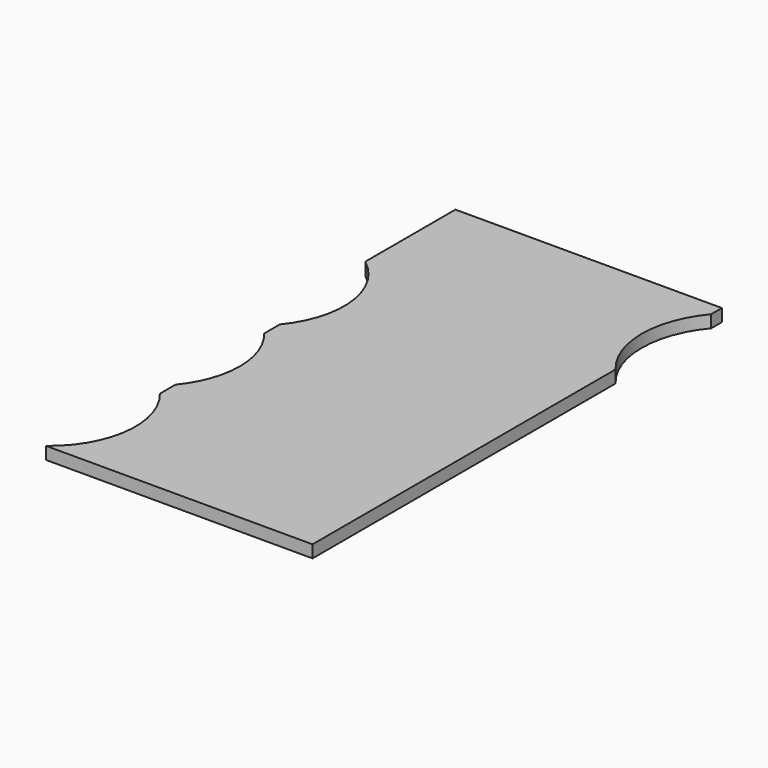
from build123d import *

# Parameters (mm, degrees)
F1_DEPTH = 2


with BuildPart() as f1:
    # F0 (on Top) → F1 (new body)
    with BuildSketch(Plane.XY):
        with BuildLine():
            Line((19.433085, 43.702438), (-23.47875, 43.702438))
            Line((-23.47875, 43.702438), (-23.47875, 25.546357))
            ThreePointArc((-23.47875, 25.546357), (-18.069214, 16.011021), (-21.1889, 5.501345))
            Line((-21.1889, 5.501345), (-21.1889, 2.342773))
            ThreePointArc((-21.1889, 2.342773), (-17.97875, -6.577941), (-21.1889, -15.498655))
            Line((-21.1889, -15.498655), (-21.1889, -18.657227))
            ThreePointArc((-21.1889, -18.657227), (-18.069214, -29.166902), (-23.47875, -38.702238))
            Line((-23.47875, -38.702238), (19.433085, -38.702238))
            Line((19.433085, -38.702238), (19.433085, 22.291379))
            ThreePointArc((19.433085, 22.291379), (15.933085, 31.922059), (19.433085, 41.55274))
            Line((19.433085, 41.55274), (19.433085, 43.702438))
        make_face()
    extrude(amount=F1_DEPTH)


solid = f1.part
